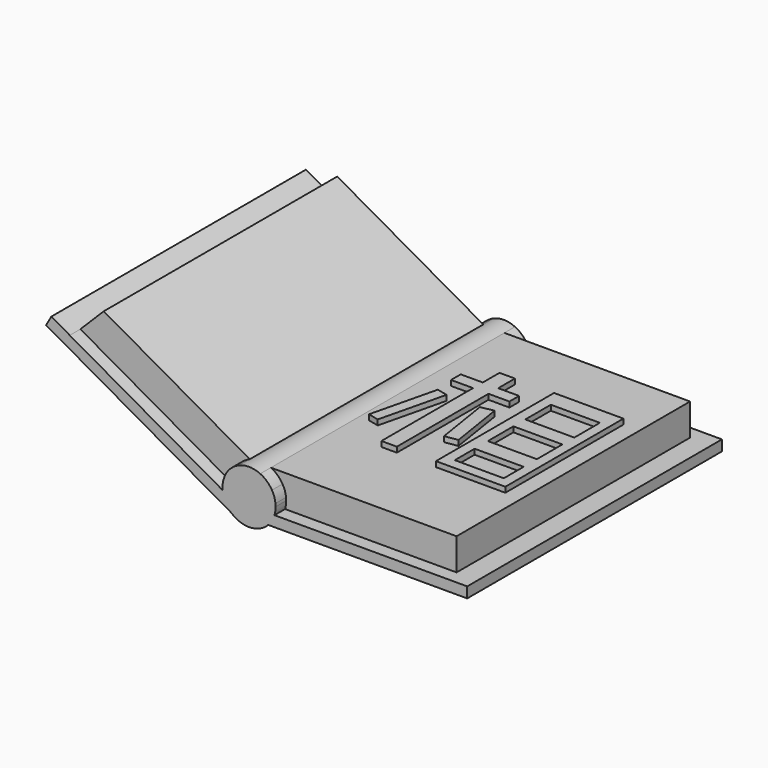
from build123d import *

# Parameters (mm, degrees)
F1_DEPTH = 12
F2_DEPTH = 11.5
F3_DEPTH = 0.5
F6_DEPTH = 0.2
F5_W     = 2.6153679937
F5_H     = 5.5628458504
F5_W_2   = 1.8473630771
F5_H_2   = 0.9340597317
F5_H_3   = 1.2038992718
F5_H_4   = 1.2038995046


with BuildPart() as f1:
    # F0 (on Front) → F1 (new body)
    with BuildSketch(Plane.XZ):
        with BuildLine():
            ThreePointArc((-0.6667518235, -0.0523417812), (0.0376902395, -0.3063514346), (0.7209971417, 0))
            ThreePointArc((0.7209971417, 0), (0.8620847172, 0.1861738498), (0.9561314277, 0.4))
            ThreePointArc((0.9561314277, 0.4), (0.9889720491, 0.5448357533), (1, 0.6929380359))
            ThreePointArc((1, 0.6929380359), (0.9985620537, 0.7465461035), (0.9942523502, 0.8))
            ThreePointArc((0.9942523502, 0.8), (0.9493862752, 1.0070490043), (0.8619096035, 1.2))
            ThreePointArc((0.8619096035, 1.2), (0.6719095395, 1.4335712588), (0.4209971417, 1.6))
            ThreePointArc((0.4209971417, 1.6), (0.0258903466, 1.6926028247), (-0.3734801914, 1.6205761909))
            ThreePointArc((-0.3734801914, 1.6205761909), (-0.5700605115, 1.514540746), (-0.7382020302, 1.3675177292))
            ThreePointArc((-0.7382020302, 1.3675177292), (-0.858231763, 1.206200387), (-0.9435628237, 1.0241316314))
            ThreePointArc((-0.9435628237, 1.0241316314), (-0.9929283296, 0.8116533775), (-0.995046372, 0.5935261773))
            ThreePointArc((-0.995046372, 0.5935261773), (-0.8914480723, 0.2398151669), (-0.6667518235, -0.0523417812))
        make_face()
        with BuildLine():
            ThreePointArc((0.9561314277, 0.4), (0.8620847172, 0.1861738498), (0.7209971417, 0))
            Line((0.7209971417, 0), (8.2209971417, 0))
            Line((8.2209971417, 0), (8.2209971417, 0.4))
            Line((8.2209971417, 0.4), (7.4209971417, 0.4))
            Line((7.4209971417, 0.4), (0.9561314277, 0.4))
        make_face()
        with BuildLine():
            Line((-7.6510265364, 3.9064238207), (-0.6667518235, -0.0523417812))
            ThreePointArc((-0.6667518235, -0.0523417812), (-0.8914480723, 0.2398151669), (-0.995046372, 0.5935261773))
            Line((-0.995046372, 0.5935261773), (-6.7578088428, 3.8599248771))
            Line((-6.7578088428, 3.8599248771), (-7.4537834202, 4.2544111095))
            Line((-7.4537834202, 4.2544111095), (-7.6510265364, 3.9064238207))
        make_face()
    extrude(amount=F1_DEPTH)


with BuildPart() as f2:
    # F0 (on Front) → F2 (new body)
    with BuildSketch(Plane.XZ):
        with BuildLine():
            ThreePointArc((1, 0.6929380359), (0.9889720491, 0.5448357533), (0.9561314277, 0.4))
            Line((0.9561314277, 0.4), (7.4209971417, 0.4))
            Line((7.4209971417, 0.4), (7.4209971417, 0.8))
            Line((7.4209971417, 0.8), (0.9942523502, 0.8))
            ThreePointArc((0.9942523502, 0.8), (0.9985620537, 0.7465461035), (1, 0.6929380359))
        make_face()
        with BuildLine():
            ThreePointArc((0.8619096035, 1.2), (0.9493862752, 1.0070490043), (0.9942523502, 0.8))
            Line((0.9942523502, 0.8), (7.4209971417, 0.8))
            Line((7.4209971417, 0.8), (7.4209971417, 1.2))
            Line((7.4209971417, 1.2), (0.8619096035, 1.2))
        make_face()
        with BuildLine():
            ThreePointArc((0.4209971417, 1.6), (0.6719095395, 1.4335712588), (0.8619096035, 1.2))
            Line((0.8619096035, 1.2), (7.4209971417, 1.2))
            Line((7.4209971417, 1.2), (7.4209971417, 1.6))
            Line((7.4209971417, 1.6), (0.4209971417, 1.6))
        make_face()
    extrude(amount=F2_DEPTH)


with BuildPart() as f2b:
    # F0 (on Front) → F2, piece 2 (new body)
    with BuildSketch(Plane.XZ):
        with BuildLine():
            Line((-6.7578088428, 3.8599248771), (-0.995046372, 0.5935261773))
            ThreePointArc((-0.995046372, 0.5935261773), (-0.9929283296, 0.8116533775), (-0.9435628237, 1.0241316314))
            Line((-0.9435628237, 1.0241316314), (-6.4643549221, 4.1533787978))
            Line((-6.4643549221, 4.1533787978), (-6.7578088428, 3.8599248771))
        make_face()
        with BuildLine():
            Line((-6.4643549221, 4.1533787978), (-0.9435628237, 1.0241316314))
            ThreePointArc((-0.9435628237, 1.0241316314), (-0.858231763, 1.206200387), (-0.7382020302, 1.3675177292))
            Line((-0.7382020302, 1.3675177292), (-6.1709010014, 4.4468327185))
            Line((-6.1709010014, 4.4468327185), (-6.4643549221, 4.1533787978))
        make_face()
        with BuildLine():
            Line((-6.1709010014, 4.4468327185), (-0.7382020302, 1.3675177292))
            ThreePointArc((-0.7382020302, 1.3675177292), (-0.5700605115, 1.514540746), (-0.3734801914, 1.6205761909))
            Line((-0.3734801914, 1.6205761909), (-5.8774470807, 4.7402866392))
            Line((-5.8774470807, 4.7402866392), (-6.1709010014, 4.4468327185))
        make_face()
    extrude(amount=F2_DEPTH)


with BuildPart() as f3_tool:
    # F0 (on Front) → F3 (new body)
    with BuildSketch(Plane.XZ):
        with BuildLine():
            Line((-6.1709010014, 4.4468327185), (-0.7382020302, 1.3675177292))
            ThreePointArc((-0.7382020302, 1.3675177292), (-0.5700605115, 1.514540746), (-0.3734801914, 1.6205761909))
            Line((-0.3734801914, 1.6205761909), (-5.8774470807, 4.7402866392))
            Line((-5.8774470807, 4.7402866392), (-6.1709010014, 4.4468327185))
        make_face()
        with BuildLine():
            Line((-6.4643549221, 4.1533787978), (-0.9435628237, 1.0241316314))
            ThreePointArc((-0.9435628237, 1.0241316314), (-0.858231763, 1.206200387), (-0.7382020302, 1.3675177292))
            Line((-0.7382020302, 1.3675177292), (-6.1709010014, 4.4468327185))
            Line((-6.1709010014, 4.4468327185), (-6.4643549221, 4.1533787978))
        make_face()
        with BuildLine():
            Line((-6.7578088428, 3.8599248771), (-0.995046372, 0.5935261773))
            ThreePointArc((-0.995046372, 0.5935261773), (-0.9929283296, 0.8116533775), (-0.9435628237, 1.0241316314))
            Line((-0.9435628237, 1.0241316314), (-6.4643549221, 4.1533787978))
            Line((-6.4643549221, 4.1533787978), (-6.7578088428, 3.8599248771))
        make_face()
        with BuildLine():
            ThreePointArc((0.4209971417, 1.6), (0.6719095395, 1.4335712588), (0.8619096035, 1.2))
            Line((0.8619096035, 1.2), (7.4209971417, 1.2))
            Line((7.4209971417, 1.2), (7.4209971417, 1.6))
            Line((7.4209971417, 1.6), (0.4209971417, 1.6))
        make_face()
        with BuildLine():
            ThreePointArc((0.8619096035, 1.2), (0.9493862752, 1.0070490043), (0.9942523502, 0.8))
            Line((0.9942523502, 0.8), (7.4209971417, 0.8))
            Line((7.4209971417, 0.8), (7.4209971417, 1.2))
            Line((7.4209971417, 1.2), (0.8619096035, 1.2))
        make_face()
        with BuildLine():
            ThreePointArc((1, 0.6929380359), (0.9889720491, 0.5448357533), (0.9561314277, 0.4))
            Line((0.9561314277, 0.4), (7.4209971417, 0.4))
            Line((7.4209971417, 0.4), (7.4209971417, 0.8))
            Line((7.4209971417, 0.8), (0.9942523502, 0.8))
            ThreePointArc((0.9942523502, 0.8), (0.9985620537, 0.7465461035), (1, 0.6929380359))
        make_face()
    extrude(amount=F3_DEPTH)


with BuildPart() as f2_1:
    add(f2.part)

    # F3: cut by f3_tool
    add(f3_tool.part, mode=Mode.SUBTRACT)


with BuildPart() as f2b_1:
    add(f2b.part)

    # F3: cut by f3_tool
    add(f3_tool.part, mode=Mode.SUBTRACT)


with BuildPart() as f6:
    # F5 (on offset) → F6 (new body)
    with BuildSketch(Plane.XY.offset(1.6)):
        Polygon((1.7991621546, -4.945203089), (1.3928536791, -4.8492602073), (0.7909039268, -7.340086624), (1.1966990358, -7.438153781), align=None)
    extrude(amount=F6_DEPTH)


with BuildPart() as f6b:
    # F5 (on offset) → F6, piece 2 (new body)
    with BuildSketch(Plane.XY.offset(1.6)):
        Polygon((2.7212945279, -2.8773562517), (2.140101511, -2.8773562517), (2.140101511, -3.6661177874), (1.3098260388, -3.6661177874), (1.3098260388, -4.1227694601), (2.140101511, -4.1227694601), (2.140101511, -8.4402021021), (2.7212945279, -8.4402021021), (2.7212945279, -4.1227694601), (3.5100560635, -4.1227694601), (3.5100560635, -3.6661177874), (2.7212945279, -3.6661177874), align=None)
    extrude(amount=F6_DEPTH)


with BuildPart() as f6c:
    # F5 (on offset) → F6, piece 3 (new body)
    with BuildSketch(Plane.XY.offset(1.6)):
        Polygon((3.5353264474, -4.8492602073), (3.0534043908, -4.945203089), (3.3855147194, -7.049490232), (3.8704985958, -6.9729473728), align=None)
    extrude(amount=F6_DEPTH)


with BuildPart() as f6d:
    # F5 (on offset) → F6, piece 4 (new body)
    with BuildSketch(Plane.XY.offset(1.6)):
        with Locations((5.5027175695, -5.6587791769)):
            Rectangle(F5_W, F5_H)
        with Locations((5.5130957626, -7.5787906535)):
            Rectangle(F5_W_2, F5_H_2, mode=Mode.SUBTRACT)
        with Locations((5.5130957626, -5.887104664)):
            Rectangle(F5_W_2, F5_H_3, mode=Mode.SUBTRACT)
        with Locations((5.5130957626, -4.1227693437)):
            Rectangle(F5_W_2, F5_H_4, mode=Mode.SUBTRACT)
    extrude(amount=F6_DEPTH)


solid = Compound([f1.part, f2_1.part, f2b_1.part, f6.part, f6b.part, f6c.part, f6d.part])
